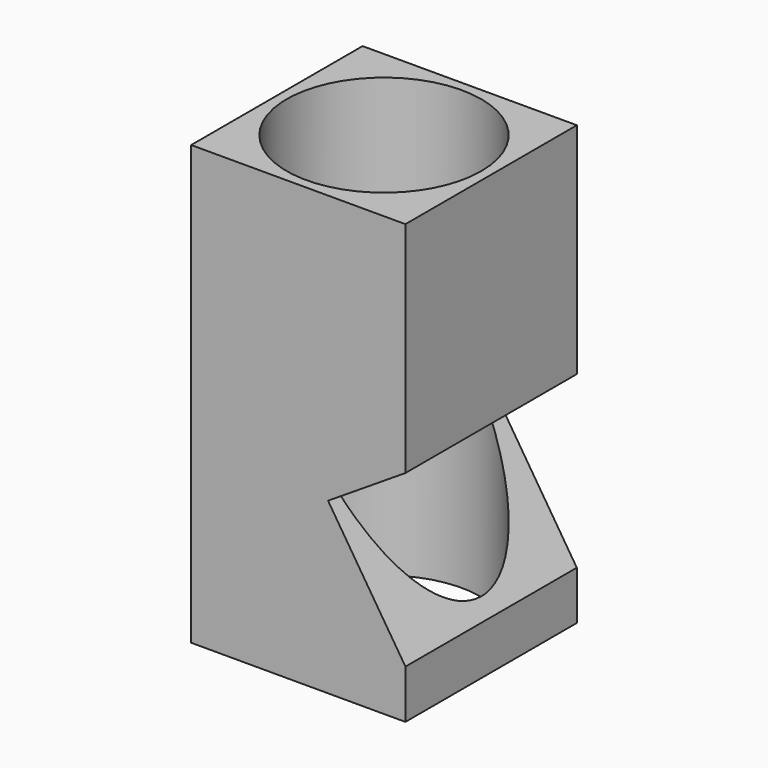
from build123d import *

# Parameters (mm, degrees)
F0_W     = 22
F0_H     = 22
F0_R     = 10
F1_DEPTH = 45
F3_DEPTH = 22.001


with BuildPart() as f1:
    # F0 (on Top) → F1 (new body)
    with BuildSketch(Plane.XY):
        Rectangle(F0_W, F0_H)
        Circle(F0_R, mode=Mode.SUBTRACT)
    extrude(amount=F1_DEPTH)

    # F2 (on face) → F3 (cut, through all)
    with BuildSketch(Plane.XZ.offset(11)):
        Polygon((11, 5), (11, 22.5), (3.054036, 17.413899), align=None)
    extrude(amount=-F3_DEPTH, mode=Mode.SUBTRACT)


solid = f1.part
